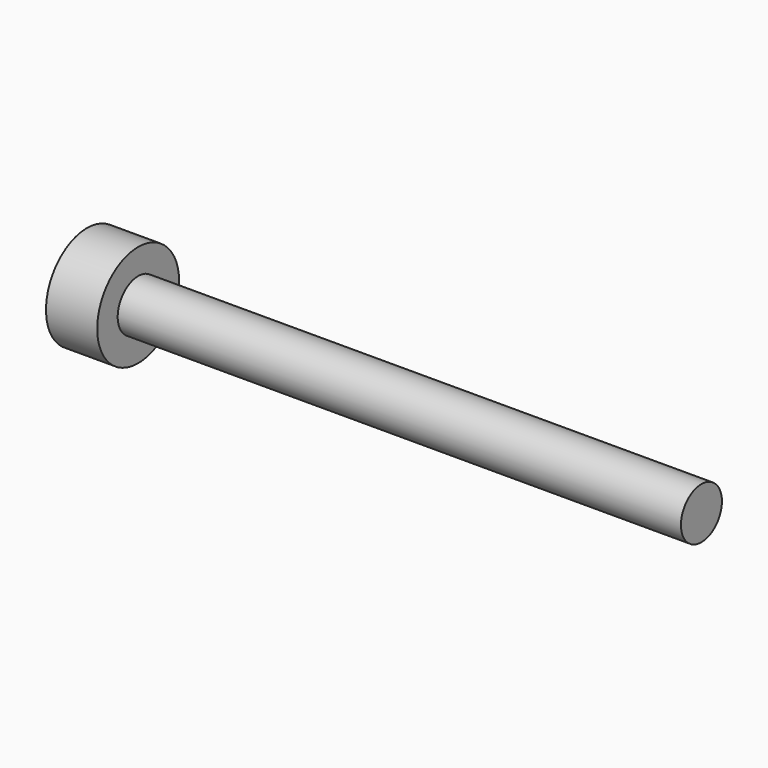
from build123d import *

# Parameters (mm, degrees)
F0_R     = 3.175
F1_DEPTH = 3.175
F2_R     = 1.5875
F3_DEPTH = 34.925
F4_DEPTH = 2.38125


with BuildPart() as f1:
    # F0 (on Right) → F1 (new body)
    with BuildSketch(Plane.YZ):
        Circle(F0_R)
        Polygon((1.193802, 1.046419), (1.503127, -0.510653), (0.309325, -1.557072), (-1.193802, -1.046419), (-1.503127, 0.510653), (-0.309325, 1.557072), align=None, mode=Mode.SUBTRACT)
        Polygon((0.309325, -1.557072), (1.503127, -0.510653), (1.193802, 1.046419), (-0.309325, 1.557072), (-1.503127, 0.510653), (-1.193802, -1.046419), align=None)
    extrude(amount=F1_DEPTH)

    # F2 (on face) → F3 (join)
    with BuildSketch(Plane.YZ.offset(3.175)):
        Circle(F2_R)
    extrude(amount=F3_DEPTH)

    # F0 (on Right) → F4 (cut)
    with BuildSketch(Plane.YZ):
        Polygon((0.309325, -1.557072), (1.503127, -0.510653), (1.193802, 1.046419), (-0.309325, 1.557072), (-1.503127, 0.510653), (-1.193802, -1.046419), align=None)
    extrude(amount=F4_DEPTH, mode=Mode.SUBTRACT)


solid = f1.part
